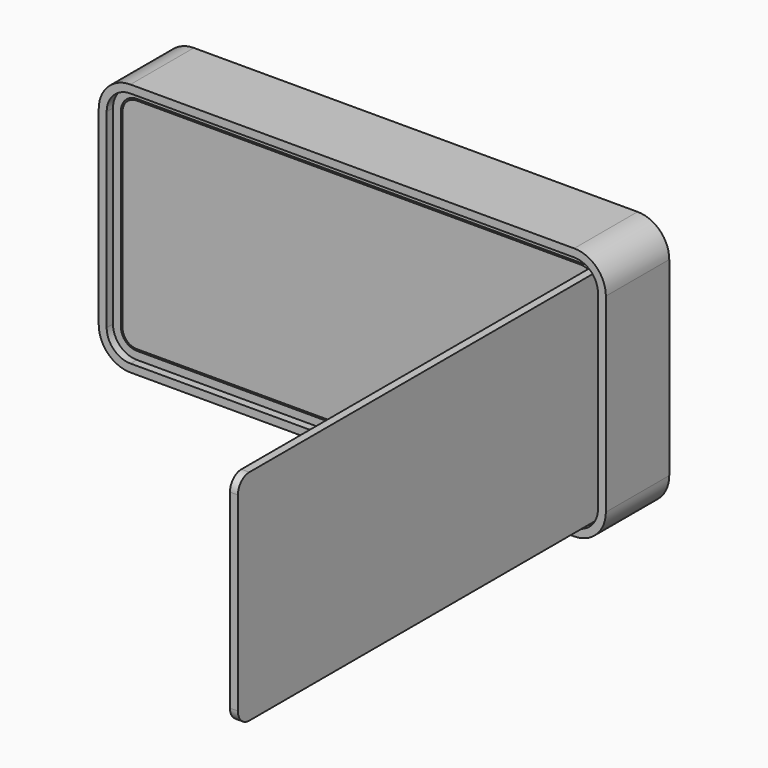
from build123d import *

# Parameters (mm, degrees)
F5_DEPTH  = 6.35
F9_DEPTH  = 6.35
F10_ANGLE = -90


with BuildPart() as f2:
    # F2: sweep along a path in F1
    with BuildLine(Plane.XZ) as f2_path:
        Line((0, 101.6), (-177.8, 101.6))
        ThreePointArc((-177.8, 101.6), (-195.7605122421, 94.1605122421), (-203.2, 76.2))
        Line((-203.2, 76.2), (-203.2, -76.2))
        ThreePointArc((-203.2, -76.2), (-195.7605122421, -94.1605122421), (-177.8, -101.6))
        Line((-177.8, -101.6), (0, -101.6))
    # F0 (on Right) → F2 (sweep)
    with BuildSketch(Plane.YZ):
        Polygon((0, -95.25), (0, -101.6), (63.5, -101.6), (63.5, -95.25), (12.7, -95.25), (12.7, -88.9), (6.35, -88.9), (6.35, -95.25), align=None)
    sweep(path=f2_path.line)

    # F3: F2 across plane


with BuildPart() as f2_1:
    add(f2.part)
    add(f2.part.mirror(Plane.YZ))

    # F8 (on face) → F9 (cut, through all)
    with BuildSketch(Plane(origin=(0, 12.7, 0), x_dir=(-1, 0, 0), z_dir=(0, 1, 0))):
        with BuildLine():
            Line((-196.85, 76.2), (-196.85, -76.2))
            ThreePointArc((-196.85, -76.2), (-195.5959834382, -82.9974608102), (-191.9990316571, -88.9))
            Line((-191.9990316571, -88.9), (-177.8, -88.9))
            ThreePointArc((-177.8, -88.9), (-186.7802561211, -85.1802561211), (-190.5, -76.2))
            Line((-190.5, -76.2), (-190.5, 76.2))
            ThreePointArc((-190.5, 76.2), (-186.7802561211, 85.1802561211), (-177.8, 88.9))
            Line((-177.8, 88.9), (-191.9990316571, 88.9))
            ThreePointArc((-191.9990316571, 88.9), (-195.5959834382, 82.9974608102), (-196.85, 76.2))
        make_face()
    extrude(amount=-F9_DEPTH, mode=Mode.SUBTRACT)


with BuildPart() as f5:
    # F4 (on face) → F5 (new body)
    with BuildSketch(Plane.XZ.offset(-6.35)):
        with BuildLine():
            ThreePointArc((-177.8, 87.63), (-185.882230509, 84.282230509), (-189.23, 76.2))
            Line((-189.23, 76.2), (-189.23, -76.2))
            ThreePointArc((-189.23, -76.2), (-185.882230509, -84.282230509), (-177.8, -87.63))
            Line((-177.8, -87.63), (177.8, -87.63))
            ThreePointArc((177.8, -87.63), (185.882230509, -84.282230509), (189.23, -76.2))
            Line((189.23, -76.2), (189.23, 76.2))
            ThreePointArc((189.23, 76.2), (185.882230509, 84.282230509), (177.8, 87.63))
            Line((177.8, 87.63), (-177.8, 87.63))
        make_face()
    extrude(amount=-F5_DEPTH)


with BuildPart() as f10_1:
    # F10: copy of F5
    add(f5.part.rotate(Axis((181.61, 16.51, 1.2994557619), (0, 0, -1)), F10_ANGLE))


solid = Compound([f2_1.part, f5.part, f10_1.part])
